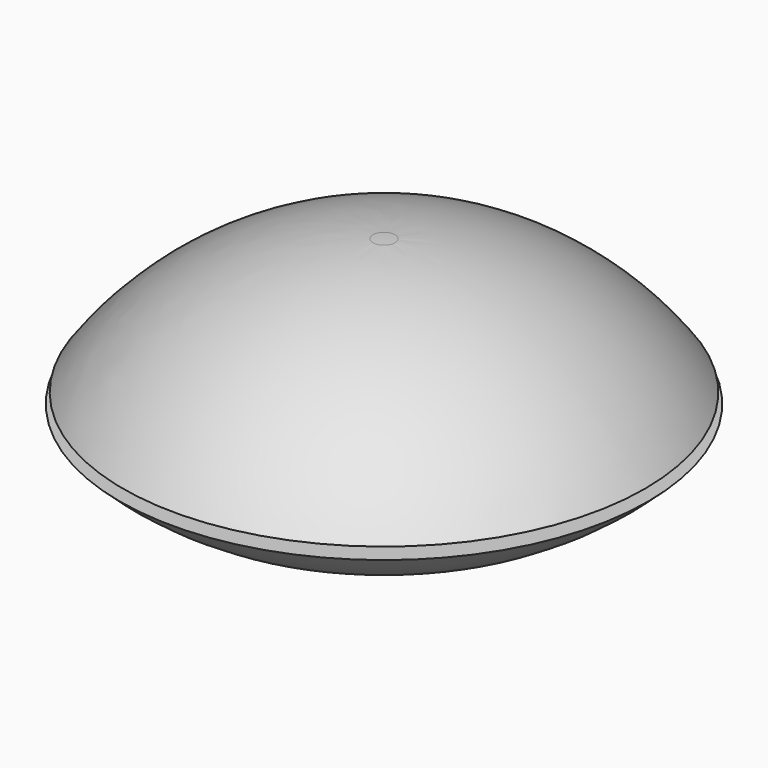
from build123d import *


with BuildPart() as f2:
    # F2: sweep along a path in F1
    with BuildLine(Plane.XY) as f2_path:
        CenterArc((0, 0), 21.102214, 0, 360)
    # F0 (on Front) → F2 (sweep)
    with BuildSketch(Plane.XZ):
        with BuildLine():
            Line((7.344783, -7.085688), (8.814342, -7.085688))
            ThreePointArc((8.814342, -7.085688), (17.068319, -4.859051), (24.102214, 0))
            Line((24.102214, 0), (21.102214, 0))
            ThreePointArc((21.102214, 0), (15.285741, -3.455785), (8.719371, -5.085688))
            Line((8.719371, -5.085688), (7.754931, -5.085688))
            ThreePointArc((7.754931, -5.085688), (3.94789, -4.036267), (0, -3.941293))
            Line((0, -3.941293), (0, -5.952401))
            ThreePointArc((0, -5.952401), (3.748044, -6.028745), (7.344783, -7.085688))
        make_face()
        with BuildLine():
            ThreePointArc((0, 11.291753), (11.722047, 8.88334), (20.173714, 0.411257))
            ThreePointArc((20.173714, 0.411257), (20.501652, 0.671709), (20.824639, 0.938275))
            Line((20.824639, 0.938275), (23.824639, 0.938275))
            ThreePointArc((23.824639, 0.938275), (13.841891, 9.749854), (1, 13.269085))
            ThreePointArc((1, 13.269085), (0.500096, 13.284661), (0, 13.291753))
            Line((0, 13.291753), (0, 11.291753))
        make_face()
    sweep(path=f2_path.line)


solid = f2.part
